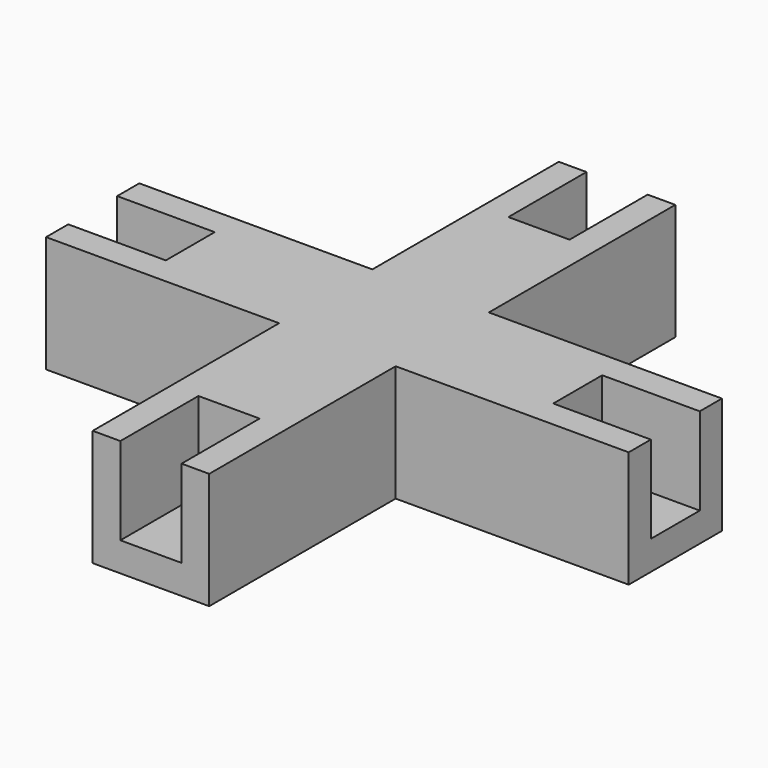
from build123d import *

# Parameters (mm, degrees)
PAD295_DEPTH            = 1
PAD296_DEPTH            = 3
PAD297_DEPTH            = 3
BODY041_PLACEMENT_ANGLE = 180


with BuildPart() as part:
    # Sketch452 → Pad295 (new body)
    with BuildSketch(Plane.XY.offset(-28)):
        Polygon((-2, 2), (-2, 10), (2, 10), (2, 2), (10, 2), (10, -2), (2, -2), (2, -10), (-2, -10), (-2, -2), (-10, -2), (-10, 2), align=None)
    extrude(amount=PAD295_DEPTH)

    # Sketch453 (on Face13 of Pad295) → Pad296 (join)
    with BuildSketch(Plane(origin=(0, 0, -28), x_dir=(1, 0, 0), z_dir=(0, 0, -1))):
        Polygon((-2, 10), (-2, 2), (-10, 2), (-10, 1.05), (-1.05, 1.05), (-1.05, 10), align=None)
        Polygon((-10, -2), (-2, -2), (-2, -10), (-1.05, -10), (-1.05, -1.05), (-10, -1.05), align=None)
        Polygon((2, -10), (2, -2), (10, -2), (10, -1.05), (1.05, -1.05), (1.05, -10), align=None)
        Polygon((10, 2), (2, 2), (2, 10), (1.05, 10), (1.05, 1.05), (10, 1.05), align=None)
    extrude(amount=PAD296_DEPTH)

    # Sketch454 (on Face3 of Pad296) → Pad297 (join)
    with BuildSketch(Plane(origin=(0, 0, -28), x_dir=(1, 0, 0), z_dir=(0, 0, -1))):
        Polygon((-6.65, 1.05), (-6.65, -1.05), (-1.05, -1.05), (-1.05, -6.65), (1.05, -6.65), (1.05, -1.05), (6.65, -1.05), (6.65, 1.05), (1.05, 1.05), (1.05, 6.65), (-1.05, 6.65), (-1.05, 1.05), align=None)
    extrude(amount=PAD297_DEPTH)


with BuildPart() as part_1:
    # Body041 placement: moved
    add(part.part.moved(Location((34.05, 9.65, -44))).rotate(Axis((34.05, 9.65, -44), (1, 0, 0)), BODY041_PLACEMENT_ANGLE))


solid = part_1.part
